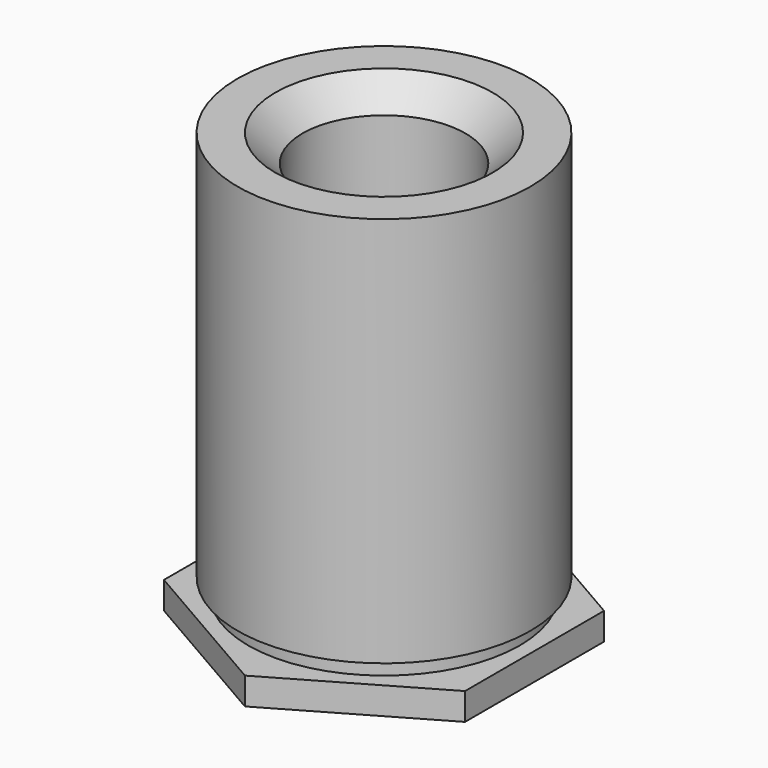
from build123d import *

# Parameters (mm, degrees)
F1_DEPTH       = 0.5
F2_R           = 2.5
F3_DEPTH       = 0.3
F4_R           = 2.695
F5_DEPTH       = 7.2
F7_D           = 3
F7_DEPTH       = 5.4
F7_CSINK_D     = 4
F7_CSINK_ANGLE = 90
F7_TIP         = 0.9012909285


with BuildPart() as f1:
    # F0 (on Top) → F1 (new body)
    with BuildSketch(Plane.XY):
        Polygon((-2.7712812921, -1.6), (0, -3.2), (2.7712812921, -1.6), (2.7712812921, 1.6), (0, 3.2), (-2.7712812921, 1.6), align=None)
    extrude(amount=F1_DEPTH)

    # F2 (on face) → F3 (join)
    with BuildSketch(Plane.XY.offset(0.5)):
        Circle(F2_R)
    extrude(amount=F3_DEPTH)

    # F4 (on face) → F5 (join)
    with BuildSketch(Plane.XY.offset(0.8)):
        Circle(F4_R)
    extrude(amount=F5_DEPTH)

    # F7
    with Locations(Plane.XY.offset(8)):
        with Locations((0, 0)):
            CounterSinkHole(F7_D / 2, F7_CSINK_D / 2, depth=F7_DEPTH, counter_sink_angle=F7_CSINK_ANGLE)
            with Locations((0, 0, -(F7_DEPTH + F7_TIP / 2))):  # 118° drill point
                Cone(0, F7_D / 2, F7_TIP, mode=Mode.SUBTRACT)


solid = f1.part
